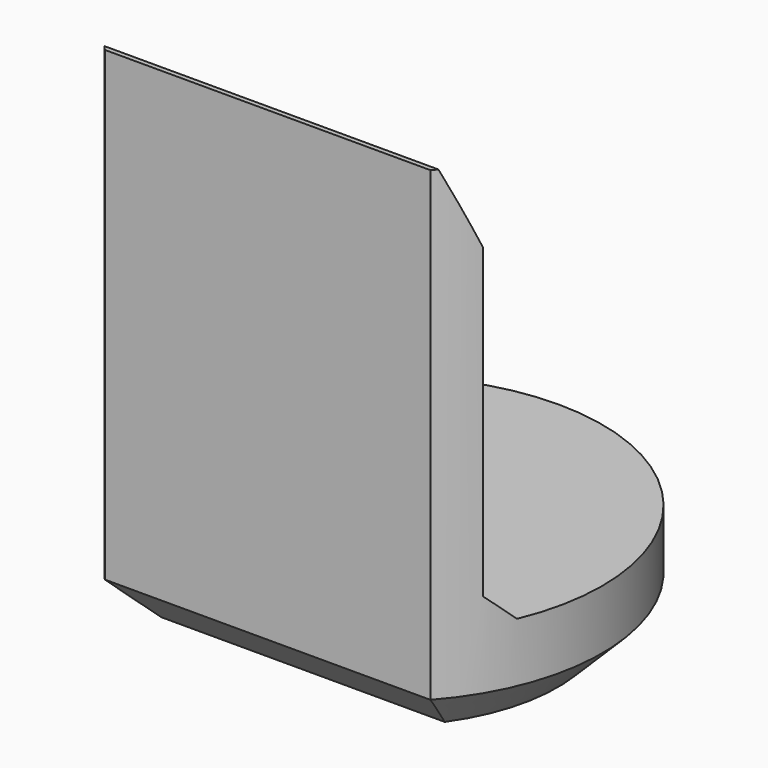
from build123d import *

# Parameters (mm, degrees)
PAD007_DEPTH         = 6.9
POCKET005_DEPTH      = 2.951
POCKET005_DEPTH_BACK = 2.951
CHAMFER008_SIZE      = 0.6


with BuildPart() as part:
    # Sketch018 → Pad007 (new body)
    with BuildSketch(Plane.XY):
        with BuildLine():
            ThreePointArc((2.2, -1.9653244007), (0, 2.95), (-2.2, -1.9653244007))
            Line((-2.2, -1.9653244007), (2.2, -1.9653244007))
        make_face()
    extrude(amount=PAD007_DEPTH)

    # Sketch019 → Pocket005 (cut, two sides)
    with BuildSketch(Plane.YZ) as pocket005_sk:
        Polygon((-1.9, 6.9), (-1.5, 5.9), (-1.5, 1.75), (-1.15, 1.4), (5, 1.4), (5, 6.9), align=None)
    extrude(amount=-POCKET005_DEPTH, mode=Mode.SUBTRACT)
    extrude(pocket005_sk.sketch, amount=POCKET005_DEPTH_BACK, mode=Mode.SUBTRACT)

    # Chamfer008
    chamfer008_edges = [part.edges().sort_by_distance(p)[0] for p in [
        (0, 2.95, 0),
        (0, -1.965324, 0),
    ]]
    chamfer(chamfer008_edges, length=CHAMFER008_SIZE)


with BuildPart() as part_1:
    # Body053 placement: moved
    add(part.part.moved(Location((0, 18, 0))))


solid = part_1.part
